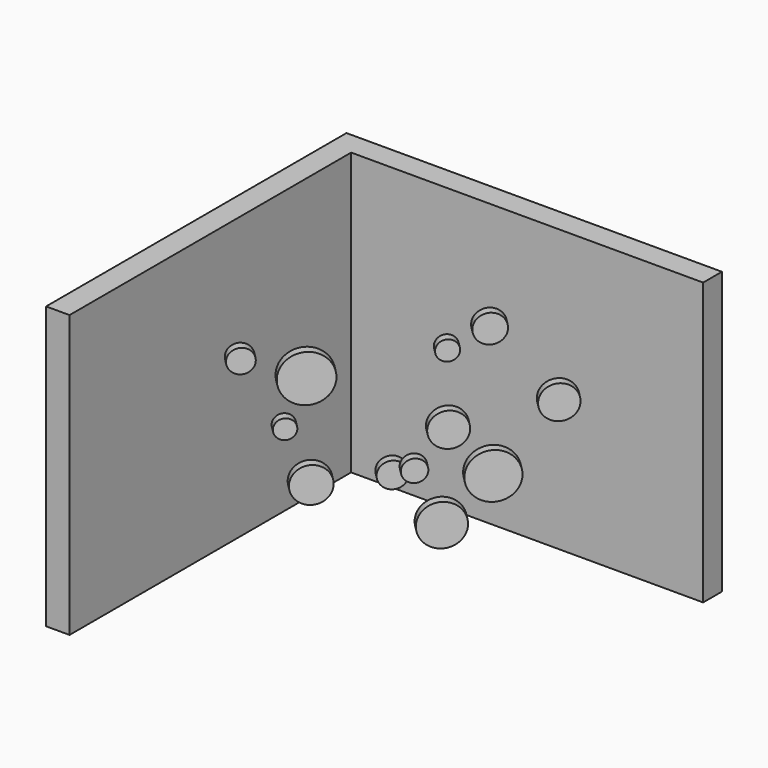
from build123d import *

# Parameters (mm, degrees)
F2_DEPTH  = 2438.4
F10_R     = 83.2821994421
F12_DEPTH = 76.2
F10_R_2   = 152.4
F10_R_3   = 146.3074713627
F10_R_4   = 93.640283176
F11_R     = 203.2
F13_DEPTH = 76.2
F11_R_2   = 197.8162227078
F11_R_3   = 144.713464529
F11_R_4   = 121.6097253427
F14_R     = 101.4249992997
F15_DEPTH = 76.2
F14_R_2   = 177.8
F14_R_3   = 85.3174196107
F14_R_4   = 109.7379276923


with BuildPart() as f2:
    # F1 (on face) → F2 (new body)
    with BuildSketch(Plane.XY):
        Polygon((-1727.2, -1524), (-1524, -1524), (-1524, 1524), (1524, 1524), (1524, 1727.2), (-1524, 1727.2), (-1727.2, 1727.2), (-1727.2, 1524), align=None)
    extrude(amount=F2_DEPTH)


with BuildPart() as f12:
    # F10 (on 3pt) → F12 (new body)
    with BuildSketch(Plane(origin=(0, 0, 0), x_dir=(0.7071067812, 0.7071067812, 0), z_dir=(0.7071067812, -0.7071067812, 0))):
        with Locations((-688.8870664728, 1483.7746525079)):
            Circle(F10_R)
    extrude(amount=-F12_DEPTH)


with BuildPart() as f12b:
    # F10 (on 3pt) → F12, piece 2 (new body)
    with BuildSketch(Plane(origin=(0, 0, 0), x_dir=(0.7071067812, 0.7071067812, 0), z_dir=(0.7071067812, -0.7071067812, 0))):
        with Locations((-510.516388369, 1048.5502269928)):
            Circle(F10_R_2)
    extrude(amount=-F12_DEPTH)


with BuildPart() as f12c:
    # F10 (on 3pt) → F12, piece 3 (new body)
    with BuildSketch(Plane(origin=(0, 0, 0), x_dir=(0.7071067812, 0.7071067812, 0), z_dir=(0.7071067812, -0.7071067812, 0))):
        with Locations((424.1459196934, 1415.9937991334)):
            Circle(F10_R_3)
    extrude(amount=-F12_DEPTH)


with BuildPart() as f12d:
    # F10 (on 3pt) → F12, piece 4 (new body)
    with BuildSketch(Plane(origin=(0, 0, 0), x_dir=(0.7071067812, 0.7071067812, 0), z_dir=(0.7071067812, -0.7071067812, 0))):
        with Locations((192.2641619254, 1116.3310803673)):
            Circle(F10_R_4)
    extrude(amount=-F12_DEPTH)


with BuildPart() as f13:
    # F11 (on offset) → F13 (new body)
    with BuildSketch(Plane(origin=(-179.6051224214, 179.6051224214, 0), x_dir=(0.7071067812, 0.7071067812, 0), z_dir=(0.7071067812, -0.7071067812, 0))):
        with Locations((-514.2516005313, 1728.7953008949)):
            Circle(F11_R)
    extrude(amount=-F13_DEPTH)


with BuildPart() as f13b:
    # F11 (on offset) → F13, piece 2 (new body)
    with BuildSketch(Plane(origin=(-179.6051224214, 179.6051224214, 0), x_dir=(0.7071067812, 0.7071067812, 0), z_dir=(0.7071067812, -0.7071067812, 0))):
        with Locations((756.7294072077, 913.3104132137)):
            Circle(F11_R_2)
    extrude(amount=-F13_DEPTH)


with BuildPart() as f13c:
    # F11 (on offset) → F13, piece 3 (new body)
    with BuildSketch(Plane(origin=(-179.6051224214, 179.6051224214, 0), x_dir=(0.7071067812, 0.7071067812, 0), z_dir=(0.7071067812, -0.7071067812, 0))):
        with Locations((1204.8788329365, 1449.6202640783)):
            Circle(F11_R_3)
    extrude(amount=-F13_DEPTH)


with BuildPart() as f13d:
    # F11 (on offset) → F13, piece 4 (new body)
    with BuildSketch(Plane(origin=(-179.6051224214, 179.6051224214, 0), x_dir=(0.7071067812, 0.7071067812, 0), z_dir=(0.7071067812, -0.7071067812, 0))):
        with Locations((734.6892776268, 2037.3571150275)):
            Circle(F11_R_4)
    extrude(amount=-F13_DEPTH)


with BuildPart() as f15:
    # F14 (on offset) → F15 (new body)
    with BuildSketch(Plane(origin=(-359.2102448428, 359.2102448428, 0), x_dir=(0.7071067812, 0.7071067812, 0), z_dir=(0.7071067812, -0.7071067812, 0))):
        with Locations((-933.1320524216, 1754.2366981506)):
            Circle(F14_R)
    extrude(amount=-F15_DEPTH)


with BuildPart() as f15b:
    # F14 (on offset) → F15, piece 2 (new body)
    with BuildSketch(Plane(origin=(-359.2102448428, 359.2102448428, 0), x_dir=(0.7071067812, 0.7071067812, 0), z_dir=(0.7071067812, -0.7071067812, 0))):
        with Locations((434.8226189613, 424.9947369099)):
            Circle(F14_R_2)
    extrude(amount=-F15_DEPTH)


with BuildPart() as f15c:
    # F14 (on offset) → F15, piece 3 (new body)
    with BuildSketch(Plane(origin=(-359.2102448428, 359.2102448428, 0), x_dir=(0.7071067812, 0.7071067812, 0), z_dir=(0.7071067812, -0.7071067812, 0))):
        with Locations((473.1154739857, 1754.2366981506)):
            Circle(F14_R_3)
    extrude(amount=-F15_DEPTH)


with BuildPart() as f15d:
    # F14 (on offset) → F15, piece 4 (new body)
    with BuildSketch(Plane(origin=(-359.2102448428, 359.2102448428, 0), x_dir=(0.7071067812, 0.7071067812, 0), z_dir=(0.7071067812, -0.7071067812, 0))):
        with Locations((99.527645536, 827.1238937466)):
            Circle(F14_R_4)
    extrude(amount=-F15_DEPTH)


solid = Compound([f2.part, f12.part, f12b.part, f12c.part, f12d.part, f13.part, f13b.part, f13c.part, f13d.part, f15.part, f15b.part, f15c.part, f15d.part])
